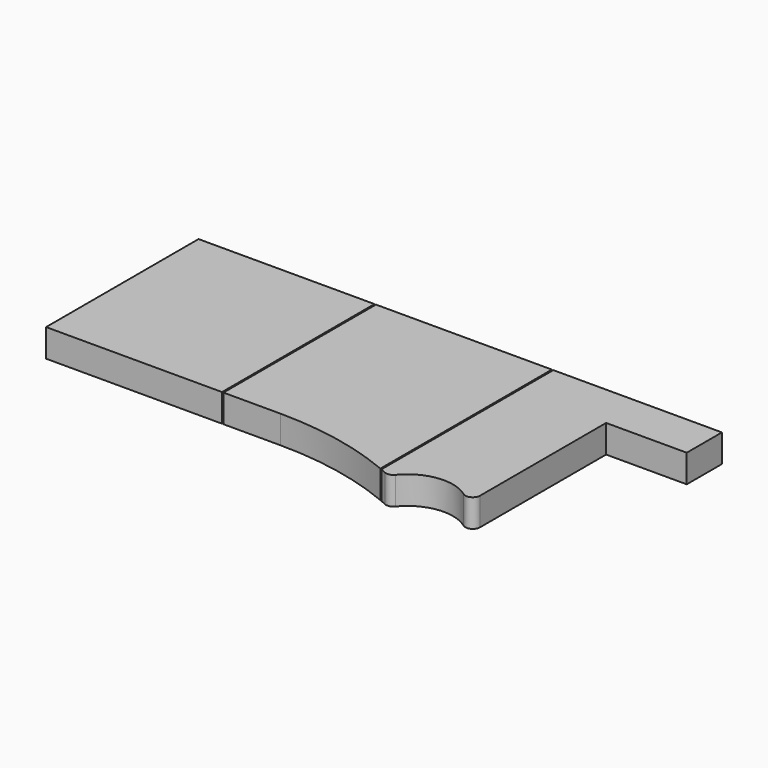
from build123d import *

# Parameters (mm, degrees)
F1_DEPTH = 19


with BuildPart() as f1:
    # F0 (on Top) → F1 (new body)
    with BuildSketch(Plane.XY):
        Polygon((-147.436856, 99.03681), (-262.804368, 99.03681), (-262.804368, -30.96319), (-142.804368, -30.96319), (-142.804368, 99.03681), (-146.42158, 99.03681), align=None)
        with BuildLine():
            Line((-141.804368, 99.03681), (-141.804368, -30.96319))
            Line((-141.804368, -30.96319), (-102.804368, -30.96319))
            ThreePointArc((-102.804368, -30.96319), (-61.501446, -35.055165), (-21.804368, -47.171996))
            Line((-21.804368, -47.171996), (-21.804368, 99.03681))
            Line((-21.804368, 99.03681), (-40.784542, 99.03681))
            Line((-40.784542, 99.03681), (-141.804368, 99.03681))
        make_face()
        with BuildLine():
            Line((-20.804368, 99.03681), (-20.804368, -47.591936))
            ThreePointArc((-20.804368, -47.591936), (-18.864796, -48.42381), (-16.933663, -49.275089))
            ThreePointArc((-16.933663, -49.275089), (-13.743527, -49.575922), (-11.025858, -47.878353))
            ThreePointArc((-11.025858, -47.878353), (9.036146, -36.764872), (31.249639, -42.4705))
            ThreePointArc((31.249639, -42.4705), (36.46169, -42.887574), (39.195632, -38.430559))
            Line((39.195632, -38.430559), (39.195632, 69.03681))
            Line((39.195632, 69.03681), (94.195632, 69.03681))
            Line((94.195632, 69.03681), (94.195632, 99.03681))
            Line((94.195632, 99.03681), (-20.804368, 99.03681))
        make_face()
    extrude(amount=F1_DEPTH)


solid = f1.part
